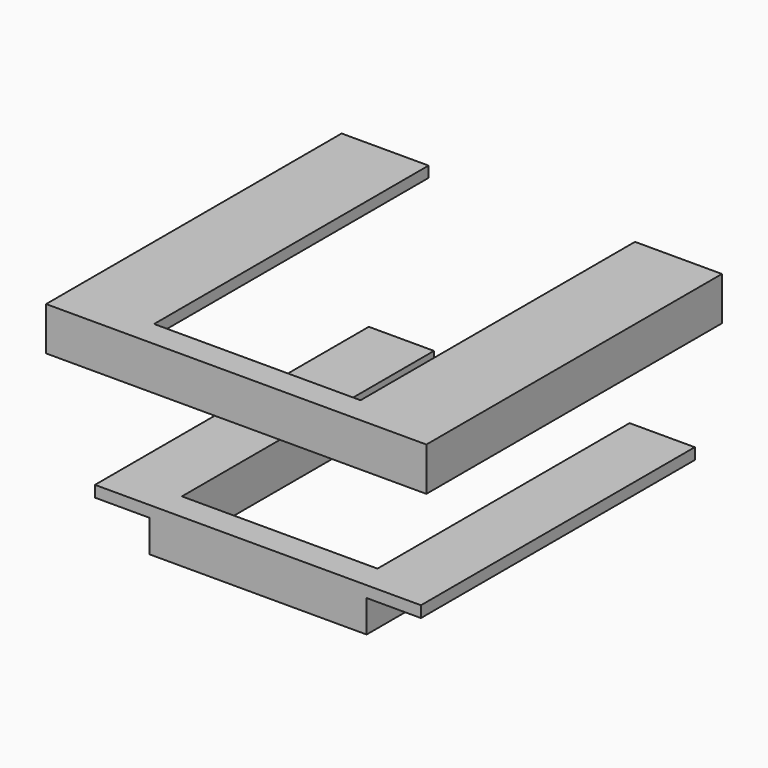
from build123d import *

# Parameters (mm, degrees)
SKETCH_W        = 60
SKETCH_H        = 8
PAD_DEPTH       = 63
SKETCH001_W     = 36
SKETCH001_H     = 8
POCKET_DEPTH    = 58
COPYSKETCH002_W = 10
COPYSKETCH002_H = 7
POCKET001_DEPTH = 63
SKETCH002_W     = 70
SKETCH002_H     = 68
PAD001_DEPTH    = 8
SKETCH003_W     = 60.15
SKETCH003_H     = 63.15
POCKET002_DEPTH = 6
SKETCH004_W     = 38
SKETCH004_H     = 63.15
POCKET003_DEPTH = 2.001


with BuildPart() as below:
    # Sketch → Pad (new body)
    with BuildSketch(Plane(origin=(0, -22.90579, -6.167026), x_dir=(-1, 0, 0), z_dir=(0, 1, 0))):
        with Locations((0, 0.46571)):
            Rectangle(SKETCH_W, SKETCH_H)
    extrude(amount=PAD_DEPTH)

    # Sketch001 (on Face6 of Pad) → Pocket (cut)
    with BuildSketch(Plane(origin=(0, 40.09421, -6.167026), x_dir=(-1, 0, 0), z_dir=(0, 1, 0))):
        with Locations((0, 0.46571)):
            Rectangle(SKETCH001_W, SKETCH001_H)
    extrude(amount=-POCKET_DEPTH, mode=Mode.SUBTRACT)

    # CopySketch002 → Pocket001 (cut)
    with BuildSketch(Plane(origin=(0, 40.09421, -6.167026), x_dir=(-1, 0, 0), z_dir=(0, 1, 0))):
        with Locations((-25, -1.11507)):
            Rectangle(COPYSKETCH002_W, COPYSKETCH002_H)
        with Locations((25, -1.11507)):
            Rectangle(COPYSKETCH002_W, COPYSKETCH002_H)
    extrude(amount=-POCKET001_DEPTH, mode=Mode.SUBTRACT)


with BuildPart() as cover:
    # Sketch002 → Pad001 (new body)
    with BuildSketch(Plane.XY.offset(20)):
        with Locations((0, 6.094217)):
            Rectangle(SKETCH002_W, SKETCH002_H)
    extrude(amount=PAD001_DEPTH)

    # Sketch003 (on Face5 of Pad001) → Pocket002 (cut)
    with BuildSketch(Plane(origin=(0, 0, 20), x_dir=(1, 0, 0), z_dir=(0, 0, -1))):
        with Locations((0, -8.519217)):
            Rectangle(SKETCH003_W, SKETCH003_H)
    extrude(amount=-POCKET002_DEPTH, mode=Mode.SUBTRACT)

    # Sketch004 (on Face4 of Pocket002) → Pocket003 (cut, through all)
    with BuildSketch(Plane(origin=(0, 0, 26), x_dir=(1, 0, 0), z_dir=(0, 0, -1))):
        with Locations((0, -8.519217)):
            Rectangle(SKETCH004_W, SKETCH004_H)
    extrude(amount=-POCKET003_DEPTH, mode=Mode.SUBTRACT)


solid = Compound([below.part, cover.part])
